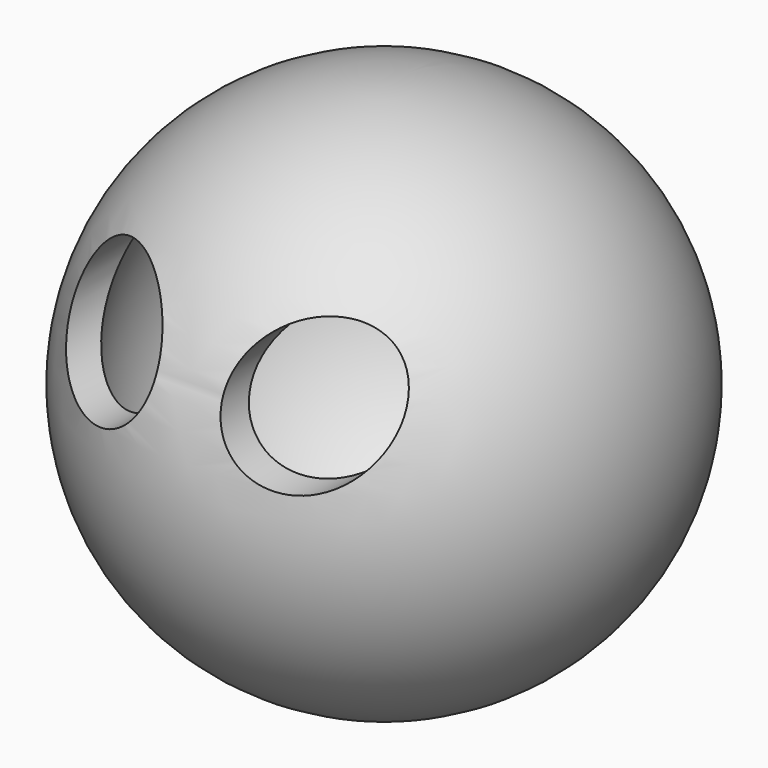
from build123d import *

# Parameters (mm, degrees)
F4_T     = -5
F5_R     = 10
F6_DEPTH = 40.001


with BuildPart() as f1:
    # F0 (on Right) → F1 (revolve)
    with BuildSketch(Plane.YZ):
        with BuildLine():
            Line((0, 40), (0, -40))
            ThreePointArc((0, -40), (40, 0), (0, 40))
        make_face()
    revolve(axis=Axis((0, 0, 0), (0, 0, -1)))

    # F2 (on Right) → F3 (revolve, cut)
    with BuildSketch(Plane.YZ):
        Polygon((35.355339, -35.355339), (17.67767, -17.67767), (14.142136, -21.213203), (31.819805, -38.890873), align=None)
    revolve(axis=Axis((0, 26.516504, -26.516504), (0, 0.707107, -0.707107)), mode=Mode.SUBTRACT)

    # F4
    f4_openings = [f1.faces().sort_by_distance(p)[0] for p in [
        (0, 26.405584, -19.334516),
        (0, 17.67767, -17.67767),
    ]]
    offset(amount=F4_T, openings=f4_openings)


with BuildPart() as f6:
    # F5 (on Front) → F6 (new body, through all)
    with BuildSketch(Plane.XZ):
        with Locations((15, 15)):
            Circle(F5_R)
    extrude(amount=F6_DEPTH)


with BuildPart() as f7_1:
    # F7: instance of F6
    add(f6.part.mirror(Plane.YZ))


with BuildPart() as f1_1:
    add(f1.part)

    # F8: cut F6, F7_1
    add(f6.part, mode=Mode.SUBTRACT)
    add(f7_1.part, mode=Mode.SUBTRACT)


solid = f1_1.part
